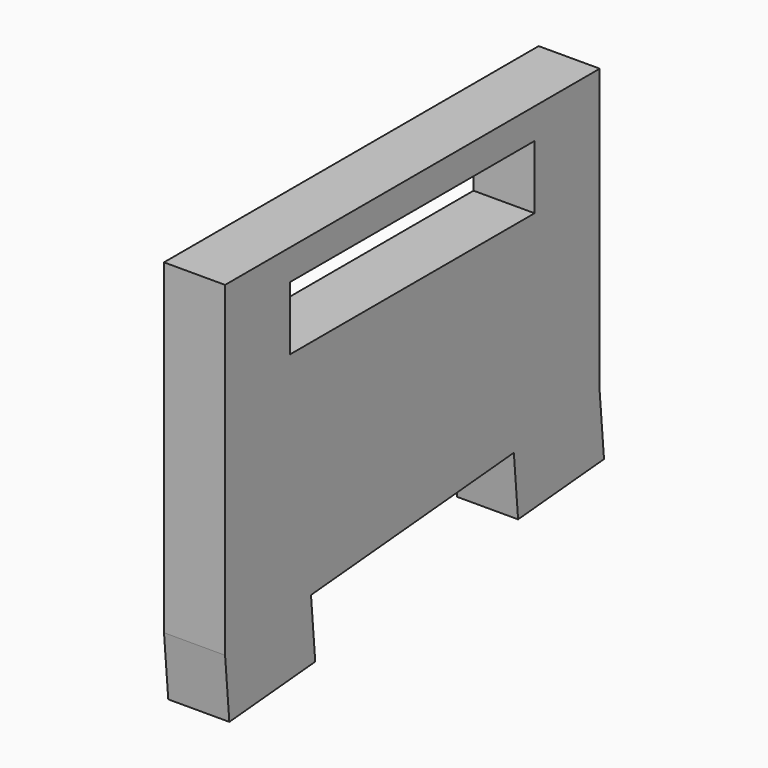
from build123d import *

# Parameters (mm, degrees)
F1_DEPTH = 3
F3_DEPTH = 3
F4_W     = 30
F4_H     = 6.25
F5_DEPTH = 6


with BuildPart() as f1:
    # F0 (on Right) → F1 (new body, symmetric)
    with BuildSketch(Plane.YZ):
        Polygon((23, -28), (23, 0), (-23, 0), (-23, -32.024479), align=None)
    extrude(amount=F1_DEPTH, both=True)

    # F2 (on Right) → F3 (join, symmetric)
    with BuildSketch(Plane.YZ):
        Polygon((-23, -32.024479), (-22.477066, -38.001647), (-11.929499, -37.078854), (-12.452434, -31.101686), align=None)
        Polygon((23.522934, -33.977168), (23, -28), (12.452434, -28.922792), (12.975368, -34.899961), align=None)
    extrude(amount=F3_DEPTH, both=True)

    # F4 (on face) → F5 (cut, through all)
    with BuildSketch(Plane.YZ.offset(3)):
        with Locations((0, -6.125)):
            Rectangle(F4_W, F4_H)
    extrude(amount=-F5_DEPTH, mode=Mode.SUBTRACT)


solid = f1.part
